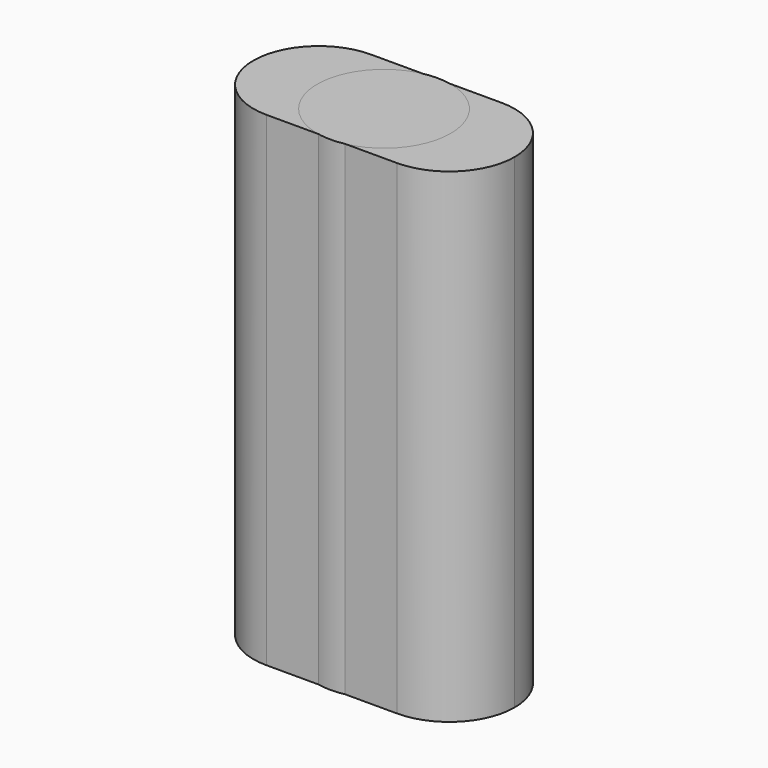
from build123d import *

# Parameters (mm, degrees)
F1_DEPTH = 69
F2_R     = 9.5
F3_DEPTH = 69


with BuildPart() as f1:
    # F0 (on Top) → F1 (new body)
    with BuildSketch(Plane.XY):
        with BuildLine():
            ThreePointArc((9.3, -9.3), (15.876093, -6.576093), (18.6, 0))
            ThreePointArc((18.6, 0), (15.876093, 6.576093), (9.3, 9.3))
            ThreePointArc((9.3, 9.3), (2.723907, 6.576093), (0, 0))
            ThreePointArc((0, 0), (2.723907, -6.576093), (9.3, -9.3))
        make_face()
        with BuildLine():
            ThreePointArc((0, 0), (2.723907, 6.576093), (9.3, 9.3))
            Line((9.3, 9.3), (-9.3, 9.3))
            ThreePointArc((-9.3, 9.3), (-2.723907, 6.576093), (0, 0))
        make_face()
        with BuildLine():
            Line((-9.3, -9.3), (9.3, -9.3))
            ThreePointArc((9.3, -9.3), (2.723907, -6.576093), (0, 0))
            ThreePointArc((0, 0), (-2.723907, -6.576093), (-9.3, -9.3))
        make_face()
        with BuildLine():
            ThreePointArc((-9.3, -9.3), (-2.723907, -6.576093), (0, 0))
            ThreePointArc((0, 0), (-2.723907, 6.576093), (-9.3, 9.3))
            ThreePointArc((-9.3, 9.3), (-18.6, 0), (-9.3, -9.3))
        make_face()
    extrude(amount=F1_DEPTH)


with BuildPart() as f3:
    # F2 (on Top) → F3 (new body)
    with BuildSketch(Plane.XY):
        Circle(F2_R)
    extrude(amount=F3_DEPTH)


solid = Compound([f1.part, f3.part])
